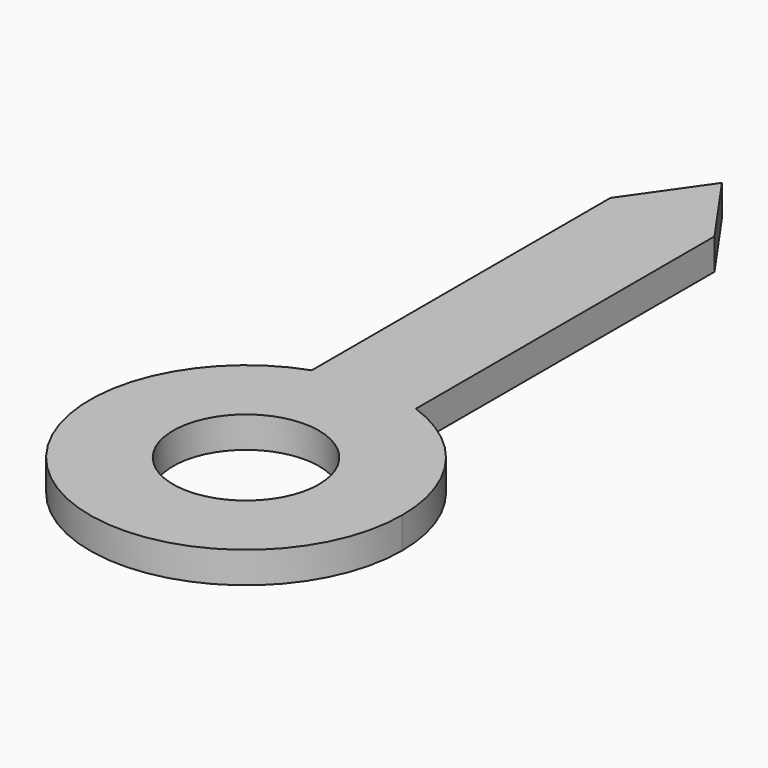
from build123d import *

# Parameters (mm, degrees)
F1_DEPTH = 0.3
F2_R     = 0.7
F3_DEPTH = 12.5


with BuildPart() as f1:
    # F0 (on Top) → F1 (new body)
    with BuildSketch(Plane.XY):
        with BuildLine():
            ThreePointArc((-0.5, 1.414214), (0, 1.5), (0.5, 1.414214))
            Line((0.5, 1.414214), (0.5, 5))
            Line((0.5, 5), (-0.5, 5))
            Line((-0.5, 5), (-0.5, 1.414214))
        make_face()
        Polygon((-0.5, 5), (0.5, 5), (0, 5.714074), align=None)
        with BuildLine():
            Line((0.5, 0), (0.5, 1.414214))
            ThreePointArc((0.5, 1.414214), (0, 1.5), (-0.5, 1.414214))
            Line((-0.5, 1.414214), (-0.5, 0))
            Line((-0.5, 0), (0.5, 0))
        make_face()
        with BuildLine():
            ThreePointArc((-0.5, 1.414214), (-0.866025, -1.224745), (1.5, 0))
            ThreePointArc((1.5, 0), (1.224745, 0.866025), (0.5, 1.414214))
            Line((0.5, 1.414214), (0.5, 0))
            Line((0.5, 0), (-0.5, 0))
            Line((-0.5, 0), (-0.5, 1.414214))
        make_face()
    extrude(amount=F1_DEPTH)

    # F2 (on face) → F3 (cut, symmetric)
    with BuildSketch(Plane.XY.offset(0.3)):
        Circle(F2_R)
    extrude(amount=F3_DEPTH, both=True, mode=Mode.SUBTRACT)


solid = f1.part
